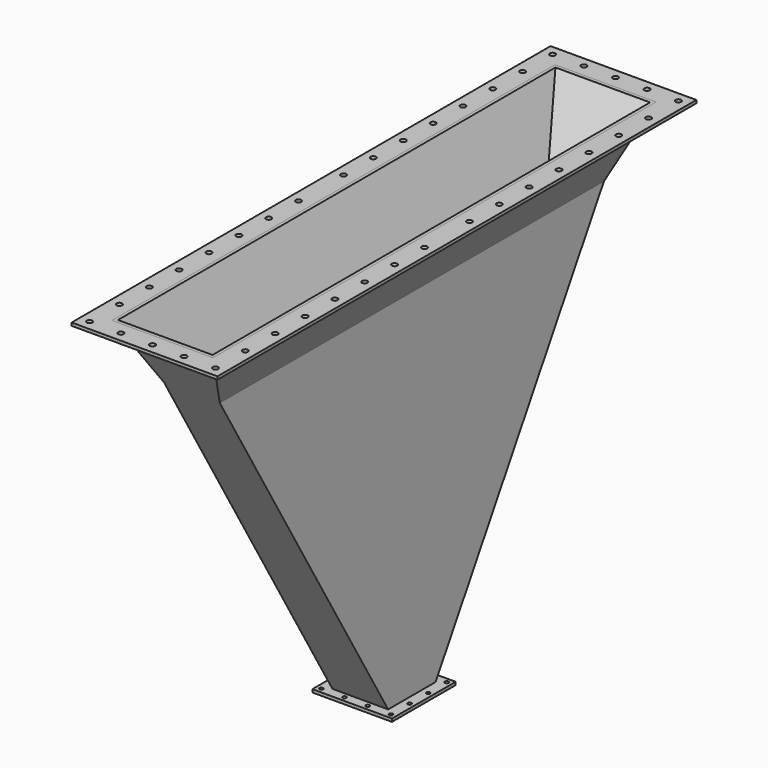
from build123d import *

# Parameters (mm, degrees)
F0_W          = 224
F0_H          = 1439.9795548296
F1_DEPTH      = 2226
F3_DEPTH      = 400
F3_DEPTH_BACK = 400
F4_T          = -12
F5_W          = 200
F5_H          = 200
F6_DEPTH      = 1690.001
F7_W          = 586
F7_H          = 2406
F7_R          = 11
F7_W_2        = 406
F7_H_2        = 2226
F8_DEPTH      = 12
F9_W          = 320
F9_H          = 320
F9_W_2        = 224
F9_H_2        = 224
F10_DEPTH     = 12
F11_R         = 7.5
F12_DEPTH     = 12


with BuildPart() as f1:
    # F0 (on Front) → F1 (new body)
    with BuildSketch(Plane.XZ):
        Polygon((203, 137.7075620317), (-203, 137.7075620317), (-112, -112.3128831387), (112, -112.3128831387), align=None)
        with Locations((0, -832.3026605535)):
            Rectangle(F0_W, F0_H)
    extrude(amount=-F1_DEPTH)

    # F2 (on face) → F3 (cut, two sides)
    with BuildSketch(Plane.YZ.offset(112)) as f3_sk:
        Polygon((2226, 137.7075620317), (1225, -1552.2924379683), (2226, -1552.2924379683), align=None)
        Polygon((0, -1552.2924379683), (1001, -1552.2924379683), (0, 137.7075620317), align=None)
    extrude(amount=-F3_DEPTH, mode=Mode.SUBTRACT)
    extrude(f3_sk.sketch, amount=F3_DEPTH_BACK, mode=Mode.SUBTRACT)

    # F4
    f4_openings = [f1.faces().sort_by_distance(p)[0] for p in [
        (0, 1113, 137.707562),
    ]]
    offset(amount=F4_T, openings=f4_openings, kind=Kind.INTERSECTION)

    # F5 (on face) → F6 (cut, through all)
    with BuildSketch(Plane(origin=(0, 0, -1552.2924379683), x_dir=(1, 0, 0), z_dir=(0, 0, -1))):
        with Locations((0, -1113)):
            Rectangle(F5_W, F5_H)
    extrude(amount=-F6_DEPTH, mode=Mode.SUBTRACT)

    # F9 (on face) → F10 (join)
    with BuildSketch(Plane(origin=(0, 0, -1552.2924379683), x_dir=(1, 0, 0), z_dir=(0, 0, -1))):
        with Locations((0, -1113)):
            Rectangle(F9_W, F9_H)
        with Locations((0, -1113)):
            Rectangle(F9_W_2, F9_H_2, mode=Mode.SUBTRACT)
    extrude(amount=-F10_DEPTH)

    # F11 (on face) → F12 (cut)
    with BuildSketch(Plane(origin=(0, 0, -1552.2924379683), x_dir=(1, 0, 0), z_dir=(0, 0, -1))):
        with Locations((140, -973)):
            Circle(F11_R)
        with Locations((140, -1066.35)):
            Circle(F11_R)
        with Locations((46.65, -973)):
            Circle(F11_R)
        with Locations((140, -1159.65)):
            Circle(F11_R)
        with Locations((140, -1253)):
            Circle(F11_R)
        with Locations((46.65, -1253)):
            Circle(F11_R)
        with Locations((-46.65, -973)):
            Circle(F11_R)
        with Locations((-140, -973)):
            Circle(F11_R)
        with Locations((-140, -1066.35)):
            Circle(F11_R)
        with Locations((-140, -1159.65)):
            Circle(F11_R)
        with Locations((-140, -1253)):
            Circle(F11_R)
        with Locations((-46.65, -1253)):
            Circle(F11_R)
    extrude(amount=-F12_DEPTH, mode=Mode.SUBTRACT)


with BuildPart() as f8:
    # F7 (on face) → F8 (new body)
    with BuildSketch(Plane.XY.offset(137.7075620317)):
        with Locations((0, 1113)):
            Rectangle(F7_W, F7_H)
        with Locations((-253, -50)):
            Circle(F7_R, mode=Mode.SUBTRACT)
        with Locations((-253, 100)):
            Circle(F7_R, mode=Mode.SUBTRACT)
        with Locations((-253, 250)):
            Circle(F7_R, mode=Mode.SUBTRACT)
        with Locations((-253, 400)):
            Circle(F7_R, mode=Mode.SUBTRACT)
        with Locations((-127, -50)):
            Circle(F7_R, mode=Mode.SUBTRACT)
        with Locations((-253, 550)):
            Circle(F7_R, mode=Mode.SUBTRACT)
        with Locations((-253, 700)):
            Circle(F7_R, mode=Mode.SUBTRACT)
        with Locations((-253, 850)):
            Circle(F7_R, mode=Mode.SUBTRACT)
        with Locations((-253, 1000)):
            Circle(F7_R, mode=Mode.SUBTRACT)
        with Locations((0, -50)):
            Circle(F7_R, mode=Mode.SUBTRACT)
        with Locations((127, -50)):
            Circle(F7_R, mode=Mode.SUBTRACT)
        with Locations((253, -50)):
            Circle(F7_R, mode=Mode.SUBTRACT)
        with Locations((253, 100)):
            Circle(F7_R, mode=Mode.SUBTRACT)
        with Locations((253, 250)):
            Circle(F7_R, mode=Mode.SUBTRACT)
        with Locations((253, 400)):
            Circle(F7_R, mode=Mode.SUBTRACT)
        with Locations((253, 550)):
            Circle(F7_R, mode=Mode.SUBTRACT)
        with Locations((253, 700)):
            Circle(F7_R, mode=Mode.SUBTRACT)
        with Locations((253, 850)):
            Circle(F7_R, mode=Mode.SUBTRACT)
        with Locations((253, 1000)):
            Circle(F7_R, mode=Mode.SUBTRACT)
        with Locations((-253, 1226)):
            Circle(F7_R, mode=Mode.SUBTRACT)
        with Locations((-253, 1376)):
            Circle(F7_R, mode=Mode.SUBTRACT)
        with Locations((-253, 1526)):
            Circle(F7_R, mode=Mode.SUBTRACT)
        with Locations((-253, 1676)):
            Circle(F7_R, mode=Mode.SUBTRACT)
        with Locations((-253, 1826)):
            Circle(F7_R, mode=Mode.SUBTRACT)
        with Locations((-253, 1976)):
            Circle(F7_R, mode=Mode.SUBTRACT)
        with Locations((-253, 2126)):
            Circle(F7_R, mode=Mode.SUBTRACT)
        with Locations((-253, 2276)):
            Circle(F7_R, mode=Mode.SUBTRACT)
        with Locations((-127, 2276)):
            Circle(F7_R, mode=Mode.SUBTRACT)
        with Locations((0, 1113)):
            Rectangle(F7_W_2, F7_H_2, mode=Mode.SUBTRACT)
        with Locations((253, 1226)):
            Circle(F7_R, mode=Mode.SUBTRACT)
        with Locations((253, 1376)):
            Circle(F7_R, mode=Mode.SUBTRACT)
        with Locations((253, 1526)):
            Circle(F7_R, mode=Mode.SUBTRACT)
        with Locations((253, 1676)):
            Circle(F7_R, mode=Mode.SUBTRACT)
        with Locations((0, 2276)):
            Circle(F7_R, mode=Mode.SUBTRACT)
        with Locations((127, 2276)):
            Circle(F7_R, mode=Mode.SUBTRACT)
        with Locations((253, 1826)):
            Circle(F7_R, mode=Mode.SUBTRACT)
        with Locations((253, 1976)):
            Circle(F7_R, mode=Mode.SUBTRACT)
        with Locations((253, 2126)):
            Circle(F7_R, mode=Mode.SUBTRACT)
        with Locations((253, 2276)):
            Circle(F7_R, mode=Mode.SUBTRACT)
    extrude(amount=-F8_DEPTH)


solid = Compound([f1.part, f8.part])
